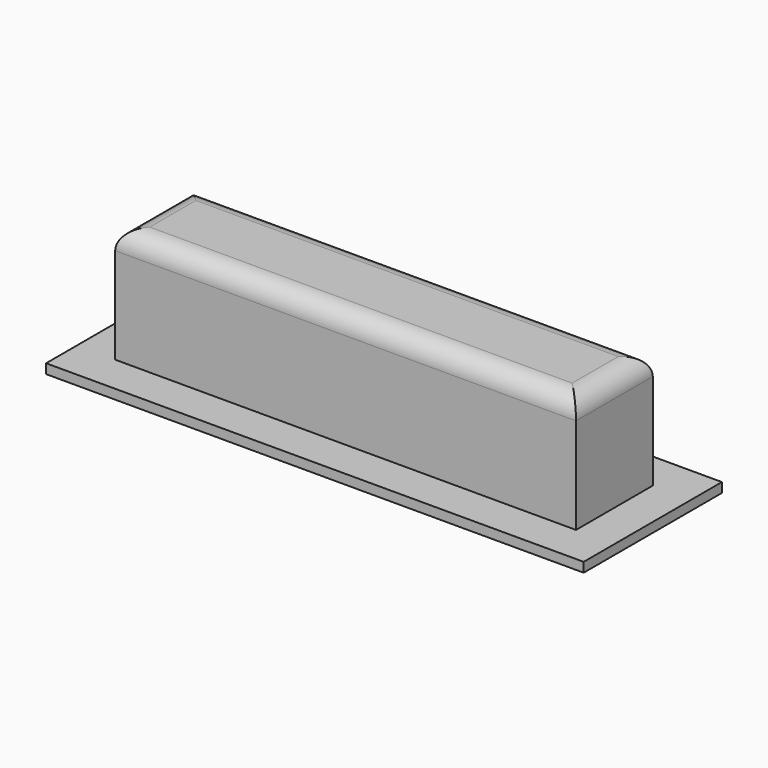
from build123d import *

# Parameters (mm, degrees)
SKETCH_W     = 28
SKETCH_H     = 9
PAD_DEPTH    = 0.5
SKETCH001_W  = 24
SKETCH001_H  = 5
PAD001_DEPTH = 6
FILLET_R     = 1


with BuildPart() as pad:
    # Sketch → Pad (new body)
    with BuildSketch(Plane.XY):
        with Locations((14, 4.5)):
            Rectangle(SKETCH_W, SKETCH_H)
    extrude(amount=PAD_DEPTH)


with BuildPart() as fillet_body:
    # Sketch001 → Pad001 (new body)
    with BuildSketch(Plane.XY.offset(0.5)):
        with Locations((14, 4.5)):
            Rectangle(SKETCH001_W, SKETCH001_H)
    extrude(amount=PAD001_DEPTH)

    # Fillet
    fillet_edges = [fillet_body.edges().sort_by_distance(p)[0] for p in [
        (14, 2, 6.5),
        (26, 4.5, 6.5),
        (14, 7, 6.5),
        (2, 4.5, 6.5),
    ]]
    fillet(fillet_edges, radius=FILLET_R)


solid = Compound([pad.part, fillet_body.part])
